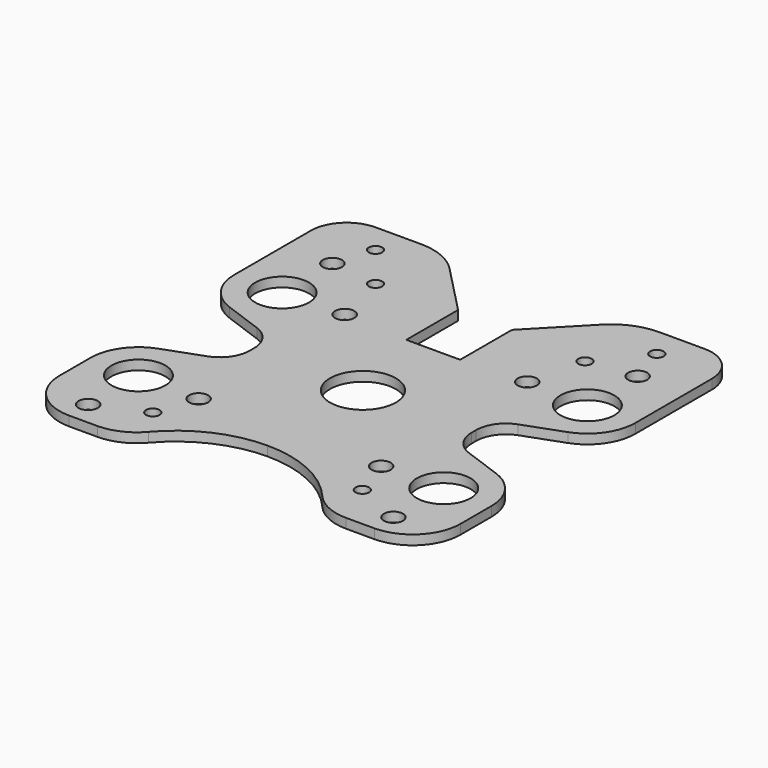
from build123d import *

# Parameters (mm, degrees)
F0_R     = 1.6
F0_R_2   = 1.130501
F0_R_3   = 4.5
F0_R_4   = 5.5
F0_R_5   = 1.1305
F1_DEPTH = 1.6


with BuildPart() as f1:
    # F0 (on Top) → F1 (new body)
    with BuildSketch(Plane.XY):
        with BuildLine():
            Line((0, 6.68), (-4.5, 6.68))
            Line((-4.5, 6.68), (-4.5, 17.5))
            Line((-4.5, 17.5), (-10.717738, 23.909049))
            Line((-10.717738, 23.909049), (-12.710509, 25.963134))
            ThreePointArc((-12.710509, 25.963134), (-15.99118, 28.209543), (-19.887888, 29.000001))
            Line((-19.887888, 29.000001), (-27.5, 29.000001))
            ThreePointArc((-27.5, 29.000001), (-31.742641, 27.242641), (-33.5, 23.000001))
            Line((-33.5, 23.000001), (-33.5, 7))
            ThreePointArc((-33.5, 7), (-32.053216, 2.411389), (-28.236161, -0.517541))
            Line((-28.236161, -0.517541), (-21.823232, -2.851656))
            ThreePointArc((-21.823232, -2.851656), (-19.437572, -4.682237), (-18.533332, -7.550119))
            Line((-18.533332, -7.550119), (-18.533332, -8))
            Line((-18.533332, -8), (-18.533332, -8.449881))
            ThreePointArc((-18.533332, -8.449881), (-19.437572, -11.317763), (-21.823232, -13.148344))
            Line((-21.823232, -13.148344), (-28.236161, -15.482459))
            ThreePointArc((-28.236161, -15.482459), (-32.053216, -18.411389), (-33.5, -23))
            Line((-33.5, -23), (-33.5, -29.5))
            ThreePointArc((-33.5, -29.5), (-31.156854, -35.156854), (-25.5, -37.5))
            Line((-25.5, -37.5), (-20.777138, -37.5))
            ThreePointArc((-20.777138, -37.5), (-17.336651, -36.747083), (-14.525119, -34.625971))
            ThreePointArc((-14.525119, -34.625971), (-7.993173, -29.698059), (0, -27.94883))
            ThreePointArc((0, -27.94883), (7.993173, -29.698059), (14.525119, -34.625971))
            ThreePointArc((14.525119, -34.625971), (17.336651, -36.747083), (20.777138, -37.5))
            Line((20.777138, -37.5), (25.5, -37.5))
            ThreePointArc((25.5, -37.5), (31.156854, -35.156854), (33.5, -29.5))
            Line((33.5, -29.5), (33.5, -23))
            ThreePointArc((33.5, -23), (32.053216, -18.411389), (28.236161, -15.482459))
            Line((28.236161, -15.482459), (21.823232, -13.148344))
            ThreePointArc((21.823232, -13.148344), (19.437572, -11.317763), (18.533332, -8.449881))
            Line((18.533332, -8.449881), (18.533332, -8))
            Line((18.533332, -8), (18.533332, -7.550119))
            ThreePointArc((18.533332, -7.550119), (19.437572, -4.682237), (21.823232, -2.851656))
            Line((21.823232, -2.851656), (28.236161, -0.517541))
            ThreePointArc((28.236161, -0.517541), (32.053216, 2.411389), (33.5, 7))
            Line((33.5, 7), (33.5, 23.000001))
            ThreePointArc((33.5, 23.000001), (31.742641, 27.242641), (27.5, 29.000001))
            Line((27.5, 29.000001), (19.887888, 29.000001))
            ThreePointArc((19.887888, 29.000001), (15.99118, 28.209543), (12.710509, 25.963134))
            Line((12.710509, 25.963134), (10.717738, 23.909049))
            Line((10.717738, 23.909049), (4.5, 17.5))
            Line((4.5, 17.5), (4.5, 6.68))
            Line((4.5, 6.68), (0, 6.68))
        make_face()
        with Locations((-25.5, -33.5)):
            Circle(F0_R, mode=Mode.SUBTRACT)
        with Locations((-17.5, -30)):
            Circle(F0_R_2, mode=Mode.SUBTRACT)
        with Locations((-25.5, -23)):
            Circle(F0_R_3, mode=Mode.SUBTRACT)
        with Locations((-15.25, -23.25)):
            Circle(F0_R, mode=Mode.SUBTRACT)
        with Locations((15.25, -23.25)):
            Circle(F0_R, mode=Mode.SUBTRACT)
        with Locations((17.5, -30)):
            Circle(F0_R_2, mode=Mode.SUBTRACT)
        with Locations((25.5, -33.5)):
            Circle(F0_R, mode=Mode.SUBTRACT)
        with Locations((25.5, -23)):
            Circle(F0_R_3, mode=Mode.SUBTRACT)
        with Locations((0, -8)):
            Circle(F0_R_4, mode=Mode.SUBTRACT)
        with Locations((-25.5, 7)):
            Circle(F0_R_3, mode=Mode.SUBTRACT)
        with Locations((-15.25, 7.25)):
            Circle(F0_R, mode=Mode.SUBTRACT)
        with Locations((-25.5, 17.5)):
            Circle(F0_R, mode=Mode.SUBTRACT)
        with Locations((-17.500001, 16.5)):
            Circle(F0_R_5, mode=Mode.SUBTRACT)
        with Locations((-23.5, 24.000001)):
            Circle(F0_R_2, mode=Mode.SUBTRACT)
        with Locations((15.25, 7.25)):
            Circle(F0_R, mode=Mode.SUBTRACT)
        with Locations((25.5, 7)):
            Circle(F0_R_3, mode=Mode.SUBTRACT)
        with Locations((17.500001, 16.5)):
            Circle(F0_R_5, mode=Mode.SUBTRACT)
        with Locations((25.5, 17.5)):
            Circle(F0_R, mode=Mode.SUBTRACT)
        with Locations((23.5, 24.000001)):
            Circle(F0_R_2, mode=Mode.SUBTRACT)
    extrude(amount=F1_DEPTH)


solid = f1.part
